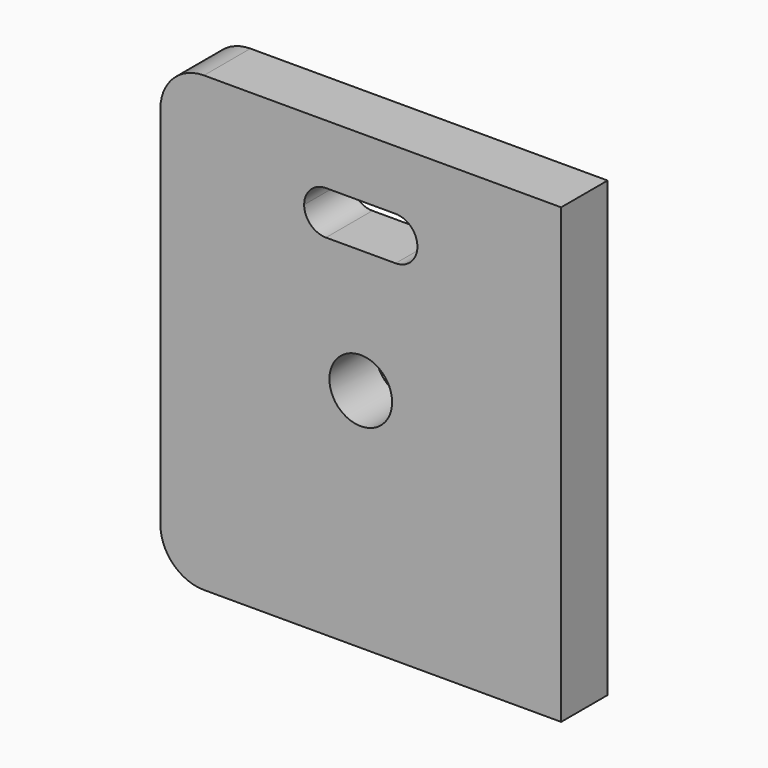
from build123d import *

# Parameters (mm, degrees)
F1_DEPTH = 6.35
F3_D     = 6.858
F3_DEPTH = 12.7
F5_DEPTH = 25.4


with BuildPart() as f1:
    # F0 (on Front) → F1 (new body)
    with BuildSketch(Plane.XZ):
        with BuildLine():
            ThreePointArc((0, 49.53), (-3.367596, 48.135096), (-4.7625, 44.7675))
            Line((-4.7625, 44.7675), (-4.7625, 4.7625))
            ThreePointArc((-4.7625, 4.7625), (-3.367596, 1.394904), (0, 0))
            Line((0, 0), (39.0525, 0))
            Line((39.0525, 0), (39.0525, 3.175))
            Line((39.0525, 3.175), (39.0525, 14.2875))
            Line((39.0525, 14.2875), (39.0525, 35.2425))
            Line((39.0525, 35.2425), (39.0525, 46.355))
            Line((39.0525, 46.355), (39.0525, 49.53))
            Line((39.0525, 49.53), (0, 49.53))
        make_face()
    extrude(amount=F1_DEPTH)

    # F3
    with Locations(Plane.XZ.offset(6.35)):
        with Locations((17.145, 24.765)):
            Hole(F3_D / 2, depth=F3_DEPTH)

    # F4 (on face) → F5 (cut)
    with BuildSketch(Plane(origin=(0, 0, 0), x_dir=(-1, 0, 0), z_dir=(0, 1, 0))):
        with BuildLine():
            ThreePointArc((-20.955, 43.02125), (-19.271202, 42.323798), (-18.57375, 40.64))
            ThreePointArc((-18.57375, 40.64), (-19.271202, 38.956202), (-20.955, 38.25875))
            Line((-20.955, 38.25875), (-13.335, 38.25875))
            ThreePointArc((-13.335, 38.25875), (-15.71625, 40.64), (-13.335, 43.02125))
            Line((-13.335, 43.02125), (-20.955, 43.02125))
        make_face()
        with BuildLine():
            ThreePointArc((-20.955, 38.25875), (-19.271202, 38.956202), (-18.57375, 40.64))
            ThreePointArc((-18.57375, 40.64), (-19.271202, 42.323798), (-20.955, 43.02125))
            ThreePointArc((-20.955, 43.02125), (-23.33625, 40.64), (-20.955, 38.25875))
        make_face()
        with BuildLine():
            ThreePointArc((-10.95375, 40.64), (-11.651202, 42.323798), (-13.335, 43.02125))
            ThreePointArc((-13.335, 43.02125), (-15.71625, 40.64), (-13.335, 38.25875))
            ThreePointArc((-13.335, 38.25875), (-11.651202, 38.956202), (-10.95375, 40.64))
        make_face()
    extrude(amount=-F5_DEPTH, mode=Mode.SUBTRACT)


solid = f1.part
